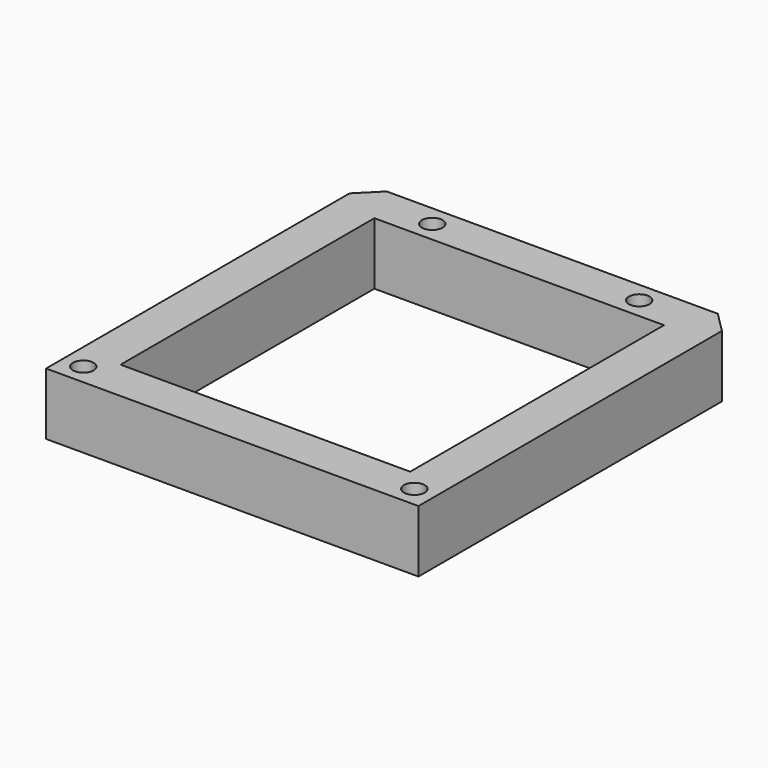
from build123d import *

# Parameters (mm, degrees)
CYLINDER2800_R     = 1.5
CYLINDER2800_DEPTH = 60
CYLINDER2801_R     = 1.5
CYLINDER2801_DEPTH = 60
CYLINDER2802_R     = 1.5
CYLINDER2802_DEPTH = 60
CYLINDER2799_R     = 1.5
CYLINDER2799_DEPTH = 60
BOX1001_W          = 42
BOX1001_H          = 46
BOX1001_DEPTH      = 50
BOX1000_W          = 54
BOX1000_H          = 58
BOX1000_DEPTH      = 9
CHAMFER146_SIZE    = 3


with BuildPart() as obj1:
    # Cylinder2800 → Cylinder2800 (new body)
    with BuildSketch(Plane(origin=(-24, 73, -80), x_dir=(1, 0, 0), z_dir=(0, 0, 1))):
        Circle(CYLINDER2800_R)
    extrude(amount=CYLINDER2800_DEPTH)


with BuildPart() as obj2:
    # Cylinder2801 → Cylinder2801 (new body)
    with BuildSketch(Plane(origin=(-15, 125, -80), x_dir=(1, 0, 0), z_dir=(0, 0, 1))):
        Circle(CYLINDER2801_R)
    extrude(amount=CYLINDER2801_DEPTH)


with BuildPart() as obj3:
    # Cylinder2802 → Cylinder2802 (new body)
    with BuildSketch(Plane(origin=(15, 125, -80), x_dir=(1, 0, 0), z_dir=(0, 0, 1))):
        Circle(CYLINDER2802_R)
    extrude(amount=CYLINDER2802_DEPTH)


with BuildPart() as compound1251:
    # Cylinder2799 → Cylinder2799 (new body)
    with BuildSketch(Plane(origin=(24, 73, -80), x_dir=(1, 0, 0), z_dir=(0, 0, 1))):
        Circle(CYLINDER2799_R)
    extrude(amount=CYLINDER2799_DEPTH)

    # Compound1251: union obj1, obj2, obj3
    add(obj1.part)
    add(obj2.part)
    add(obj3.part)


with BuildPart() as compound1251_1:
    # Compound1251 placement: moved
    add(compound1251.part.moved(Location((0, 0, 120))))


with BuildPart() as krychle1000:
    # Box1001 → Box1001 (new body)
    with BuildSketch(Plane(origin=(-21, 76, 38), x_dir=(1, 0, 0), z_dir=(0, 0, 1))):
        with Locations((21, 23)):
            Rectangle(BOX1001_W, BOX1001_H)
    extrude(amount=BOX1001_DEPTH)


with BuildPart() as cut1063:
    # Box1000 → Box1000 (new body)
    with BuildSketch(Plane(origin=(-27, 70, 75), x_dir=(1, 0, 0), z_dir=(0, 0, 1))):
        with Locations((27, 29)):
            Rectangle(BOX1000_W, BOX1000_H)
    extrude(amount=BOX1000_DEPTH)

    # Cut1068: cut Krychle1000
    add(krychle1000.part, mode=Mode.SUBTRACT)


with BuildPart() as cut1063_1:
    # Cut1068 placement: moved
    add(cut1063.part.moved(Location((0, 0, 10))))

    # Chamfer146
    chamfer146_edges = [cut1063_1.edges().sort_by_distance(p)[0] for p in [
        (-27, 128, 89.5),
        (27, 128, 89.5),
    ]]
    chamfer(chamfer146_edges, length=CHAMFER146_SIZE)

    # Cut1063: cut Compound1251
    add(compound1251_1.part, mode=Mode.SUBTRACT)


solid = cut1063_1.part
